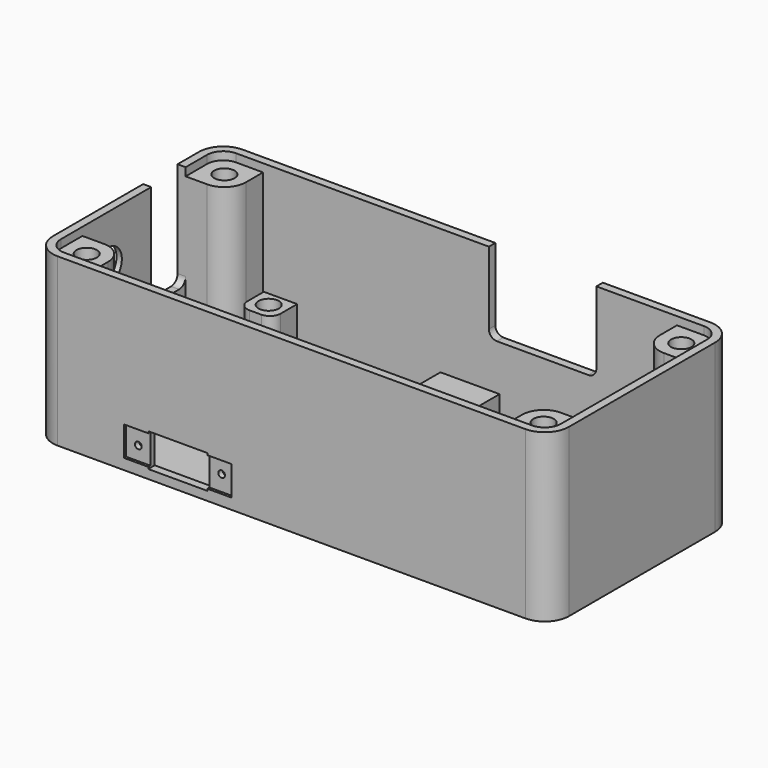
from build123d import *

# Parameters (mm, degrees)
PAD_DEPTH           = 31
POCKET_DEPTH        = 30
SKETCH002_R         = 1.6
PAD001_DEPTH        = 9
SKETCH004_R         = 1.6
PAD002_DEPTH        = 28.5
SKETCH005_W         = 20
SKETCH005_H         = 5.5
POCKET001_DEPTH     = 0.5
SKETCH006_R         = 0.625
SKETCH006_W         = 11
SKETCH006_H         = 6.2
POCKET002_DEPTH     = 5
POCKET003_DEPTH     = 5
POCKET004_DEPTH     = 5
POCKET005_DEPTH     = 5
SKETCH010_R         = 4.35
POCKET006_DEPTH     = 0.5
SKETCH011_R         = 1.9
POCKET007_DEPTH     = 4
SKETCH012_R         = 1.9
POCKET008_DEPTH     = 4
POCKET009_DEPTH     = 5
LINEARPATTERN_COUNT = 15
LINEARPATTERN_PITCH = 5
PAD003_DEPTH        = 7.5
SKETCH015_R         = 4
POCKET010_DEPTH     = 6
SKETCH016_R         = 4.2
POCKET011_DEPTH     = 4


with BuildPart() as part:
    # Sketch → Pad (new body)
    with BuildSketch(Plane.XY):
        with BuildLine():
            Line((-43.5, 21.5), (43.5, 21.5))
            ThreePointArc((48, 17), (46.681981, 20.181981), (43.5, 21.5))
            Line((48, 17), (48, -17))
            ThreePointArc((43.5, -21.5), (46.681981, -20.181981), (48, -17))
            Line((43.5, -21.5), (-43.5, -21.5))
            ThreePointArc((-48, -17), (-46.681981, -20.181981), (-43.5, -21.5))
            Line((-48, -17), (-48, 17))
            ThreePointArc((-43.5, 21.5), (-46.681981, 20.181981), (-48, 17))
        make_face()
    extrude(amount=PAD_DEPTH)

    # Sketch001 (on Face10 of Pad) → Pocket (cut)
    with BuildSketch(Plane.XY.offset(31)):
        with BuildLine():
            Line((-43.5, 20), (43.5, 20))
            ThreePointArc((46.5, 17), (45.62132, 19.12132), (43.5, 20))
            Line((46.5, 17), (46.5, -17))
            ThreePointArc((43.5, -20), (45.62132, -19.12132), (46.5, -17))
            Line((43.5, -20), (-43.5, -20))
            ThreePointArc((-46.5, -17), (-45.62132, -19.12132), (-43.5, -20))
            Line((-46.5, -17), (-46.5, 17))
            ThreePointArc((-43.5, 20), (-45.62132, 19.12132), (-46.5, 17))
        make_face()
    extrude(amount=-POCKET_DEPTH, mode=Mode.SUBTRACT)

    # Sketch002 (on Face19 of Pocket) → Pad001 (join)
    with BuildSketch(Plane.XY.offset(1)):
        with BuildLine():
            Line((-38.35, 20), (-32.15, 20))
            Line((-32.15, 20), (-32.15, 16.15))
            ThreePointArc((-34.15, 14.15), (-32.735786, 14.735786), (-32.15, 16.15))
            Line((-34.15, 14.15), (-36.35, 14.15))
            ThreePointArc((-38.35, 16.15), (-37.764214, 14.735786), (-36.35, 14.15))
            Line((-38.35, 16.15), (-38.35, 20))
        make_face()
        with Locations((-35.25, 17.25)):
            Circle(SKETCH002_R, mode=Mode.SUBTRACT)
        with BuildLine():
            Line((32.15, 20), (38.35, 20))
            Line((38.35, 20), (38.35, 16.15))
            ThreePointArc((36.35, 14.15), (37.764214, 14.735786), (38.35, 16.15))
            Line((36.35, 14.15), (34.15, 14.15))
            ThreePointArc((32.15, 16.15), (32.735786, 14.735786), (34.15, 14.15))
            Line((32.15, 16.15), (32.15, 20))
        make_face()
        with Locations((35.25, 17.25)):
            Circle(SKETCH002_R, mode=Mode.SUBTRACT)
        with BuildLine():
            Line((-34.15, -14.15), (-36.35, -14.15))
            ThreePointArc((-36.35, -14.15), (-37.764214, -14.735786), (-38.35, -16.15))
            Line((-38.35, -16.15), (-38.35, -20))
            Line((-38.35, -20), (-32.15, -20))
            Line((-32.15, -20), (-32.15, -16.15))
            ThreePointArc((-32.15, -16.15), (-32.735786, -14.735786), (-34.15, -14.15))
        make_face()
        with Locations((-35.25, -17.25)):
            Circle(SKETCH002_R, mode=Mode.SUBTRACT)
        with BuildLine():
            Line((34.15, -14.15), (36.35, -14.15))
            ThreePointArc((38.35, -16.15), (37.764214, -14.735786), (36.35, -14.15))
            Line((38.35, -16.15), (38.35, -20))
            Line((38.35, -20), (32.15, -20))
            Line((32.15, -20), (32.15, -16.15))
            ThreePointArc((34.15, -14.15), (32.735786, -14.735786), (32.15, -16.15))
        make_face()
        with Locations((35.25, -17.25)):
            Circle(SKETCH002_R, mode=Mode.SUBTRACT)
    extrude(amount=PAD001_DEPTH)

    # Sketch004 (on Face19 of Pad001) → Pad002 (join)
    with BuildSketch(Plane.XY.offset(1)):
        with BuildLine():
            Line((-38.5, 20), (-43.5, 20))
            ThreePointArc((-43.5, 20), (-45.62132, 19.12132), (-46.5, 17))
            Line((-46.5, 17), (-46.5, 12))
            Line((-46.5, 12), (-42.5, 12))
            ThreePointArc((-42.5, 12), (-39.671573, 13.171573), (-38.5, 16))
            Line((-38.5, 16), (-38.5, 20))
        make_face()
        with Locations((-42.5, 16)):
            Circle(SKETCH004_R, mode=Mode.SUBTRACT)
        with BuildLine():
            Line((38.5, 20), (43.5, 20))
            ThreePointArc((46.5, 17), (45.62132, 19.12132), (43.5, 20))
            Line((46.5, 17), (46.5, 12))
            Line((46.5, 12), (42.5, 12))
            ThreePointArc((38.5, 16), (39.671573, 13.171573), (42.5, 12))
            Line((38.5, 16), (38.5, 20))
        make_face()
        with Locations((42.5, 16)):
            Circle(SKETCH004_R, mode=Mode.SUBTRACT)
        with BuildLine():
            Line((-46.5, -12), (-42.5, -12))
            ThreePointArc((-38.5, -16), (-39.671573, -13.171573), (-42.5, -12))
            Line((-38.5, -16), (-38.5, -20))
            Line((-38.5, -20), (-43.5, -20))
            ThreePointArc((-46.5, -17), (-45.62132, -19.12132), (-43.5, -20))
            Line((-46.5, -17), (-46.5, -12))
        make_face()
        with Locations((-42.5, -16)):
            Circle(SKETCH004_R, mode=Mode.SUBTRACT)
        with BuildLine():
            Line((42.5, -12), (46.5, -12))
            Line((46.5, -12), (46.5, -17))
            ThreePointArc((43.5, -20), (45.62132, -19.12132), (46.5, -17))
            Line((43.5, -20), (38.5, -20))
            Line((38.5, -20), (38.5, -16))
            ThreePointArc((42.5, -12), (39.671573, -13.171573), (38.5, -16))
        make_face()
        with Locations((42.5, -16)):
            Circle(SKETCH004_R, mode=Mode.SUBTRACT)
    extrude(amount=PAD002_DEPTH)

    # Sketch005 (on Face9 of Pad002) → Pocket001 (cut)
    with BuildSketch(Plane.XZ.offset(21.5)):
        with Locations((-21.15, 4.75)):
            Rectangle(SKETCH005_W, SKETCH005_H)
    extrude(amount=-POCKET001_DEPTH, mode=Mode.SUBTRACT)

    # Sketch006 (on Face9 of Pocket001) → Pocket002 (cut)
    with BuildSketch(Plane.XZ.offset(21.5)):
        with Locations((-28.9, 4.575)):
            Circle(SKETCH006_R)
        with Locations((-13.4, 4.925)):
            Circle(SKETCH006_R)
        with Locations((-21.15, 4.75)):
            Rectangle(SKETCH006_W, SKETCH006_H)
    extrude(amount=-POCKET002_DEPTH, mode=Mode.SUBTRACT)

    # Sketch007 (on Face6 of Pocket002) → Pocket003 (cut)
    with BuildSketch(Plane(origin=(-48, 0, 0), x_dir=(0, -1, 0), z_dir=(-1, 0, 0))):
        with BuildLine():
            ThreePointArc((8.794, 23.508041), (2.825, 22), (8.794, 20.491959))
            Line((8.794, 23.508041), (8.794, 20.491959))
        make_face()
    extrude(amount=-POCKET003_DEPTH, mode=Mode.SUBTRACT)

    # Sketch008 (on Face1 of Pocket003) → Pocket004 (cut)
    with BuildSketch(Plane(origin=(0, 21.5, 0), x_dir=(-1, 0, 0), z_dir=(0, 1, 0))):
        with BuildLine():
            Line((-23.5, 31), (-3.5, 31))
            Line((-3.5, 31), (-3.5, 17.5))
            ThreePointArc((-5, 16), (-3.93934, 16.43934), (-3.5, 17.5))
            Line((-5, 16), (-22, 16))
            ThreePointArc((-23.5, 17.5), (-23.06066, 16.43934), (-22, 16))
            Line((-23.5, 17.5), (-23.5, 31))
        make_face()
    extrude(amount=-POCKET004_DEPTH, mode=Mode.SUBTRACT)

    # Sketch009 (on Face15 of Pocket004) → Pocket005 (cut)
    with BuildSketch(Plane(origin=(-48, 0, 0), x_dir=(0, -1, 0), z_dir=(-1, 0, 0))):
        with BuildLine():
            Line((-12, 31), (-4, 31))
            Line((-4, 31), (-4, 13.1))
            ThreePointArc((-5.5, 11.6), (-4.43934, 12.03934), (-4, 13.1))
            Line((-5.5, 11.6), (-10.5, 11.6))
            ThreePointArc((-12, 13.1), (-11.56066, 12.03934), (-10.5, 11.6))
            Line((-12, 13.1), (-12, 31))
        make_face()
    extrude(amount=-POCKET005_DEPTH, mode=Mode.SUBTRACT)

    # Sketch010 (on Face16 of Pocket005) → Pocket006 (cut)
    with BuildSketch(Plane(origin=(-48, 0, 0), x_dir=(0, -1, 0), z_dir=(-1, 0, 0))):
        with Locations((6, 22)):
            Circle(SKETCH010_R)
    extrude(amount=-POCKET006_DEPTH, mode=Mode.SUBTRACT)

    # Sketch011 (on Face48 of Pocket006) → Pocket007 (cut)
    with BuildSketch(Plane.XY.offset(29.5)):
        with Locations((42.5, 16)):
            Circle(SKETCH011_R)
        with Locations((42.5, -16)):
            Circle(SKETCH011_R)
        with Locations((-42.5, 16)):
            Circle(SKETCH011_R)
        with Locations((-42.5, -16)):
            Circle(SKETCH011_R)
    extrude(amount=-POCKET007_DEPTH, mode=Mode.SUBTRACT)

    # Sketch012 (on Face53 of Pocket007) → Pocket008 (cut)
    with BuildSketch(Plane.XY.offset(10)):
        with Locations((-35.25, 17.25)):
            Circle(SKETCH012_R)
        with Locations((35.25, 17.25)):
            Circle(SKETCH012_R)
        with Locations((-35.25, -17.25)):
            Circle(SKETCH012_R)
        with Locations((35.25, -17.25)):
            Circle(SKETCH012_R)
    extrude(amount=-POCKET008_DEPTH, mode=Mode.SUBTRACT)

    # Sketch013 (on Face43 of Pocket008) → Pocket009 (cut)
    with BuildSketch(Plane.XY.offset(1)):
        with BuildLine():
            ThreePointArc((-33.8, 10), (-35, 11.2), (-36.2, 10))
            Line((-36.2, 10), (-36.2, -10))
            ThreePointArc((-36.2, -10), (-35, -11.2), (-33.8, -10))
            Line((-33.8, -10), (-33.8, 10))
        make_face()
    pocket009 = extrude(amount=-POCKET009_DEPTH, mode=Mode.SUBTRACT)

    # LinearPattern: Pocket009 ×15
    with Locations(*[(i * LINEARPATTERN_PITCH, 0, 0) for i in range(1, LINEARPATTERN_COUNT)]):
        add(pocket009, mode=Mode.SUBTRACT)

    # Sketch014 (on Face2 of LinearPattern) → Pad003 (join)
    with BuildSketch(Plane(origin=(0, 0, 0), x_dir=(1, 0, 0), z_dir=(0, 0, -1))):
        with BuildLine():
            ThreePointArc((5.5, -13), (0, -7.5), (-5.5, -13))
            Line((-5.5, -13), (-5.5, -21.5))
            Line((5.5, -21.5), (-5.5, -21.5))
            Line((5.5, -21.5), (5.5, -13))
        make_face()
    extrude(amount=-PAD003_DEPTH)

    # Sketch015 (on Face13 of Pad003) → Pocket010 (cut)
    with BuildSketch(Plane(origin=(0, 0, 0), x_dir=(1, 0, 0), z_dir=(0, 0, -1))):
        with Locations((0, -13)):
            Circle(SKETCH015_R)
    extrude(amount=-POCKET010_DEPTH, mode=Mode.SUBTRACT)

    # Sketch016 (on Face13 of Pocket010) → Pocket011 (cut)
    with BuildSketch(Plane(origin=(0, 0, 0), x_dir=(1, 0, 0), z_dir=(0, 0, -1))):
        with Locations((0, -13)):
            Circle(SKETCH016_R)
    extrude(amount=-POCKET011_DEPTH, mode=Mode.SUBTRACT)


solid = part.part
